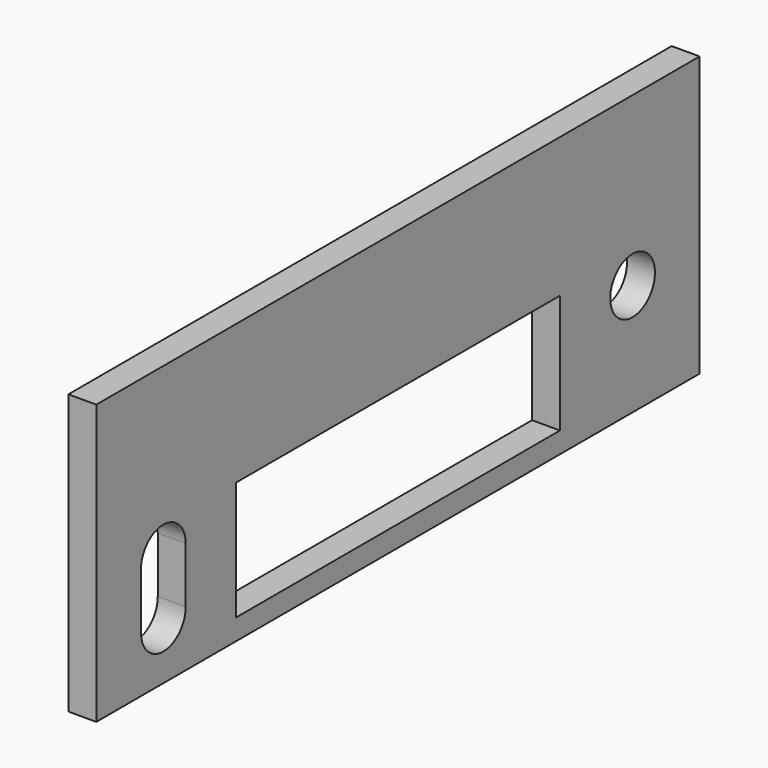
from build123d import *

# Parameters (mm, degrees)
SKETCH021_W     = 2
SKETCH021_H     = 54
PAD012_DEPTH    = 20
POCKET007_DEPTH = 2
SKETCH023_R     = 2
POCKET008_DEPTH = 2
SKETCH024_W     = 29
SKETCH024_H     = 8.5
POCKET009_DEPTH = 2


with BuildPart() as part:
    # Sketch021 → Pad012 (new body)
    with BuildSketch(Plane.XY.offset(20)):
        with Locations((52, 0)):
            Rectangle(SKETCH021_W, SKETCH021_H)
    extrude(amount=-PAD012_DEPTH)

    # Sketch022 (on Face4 of Pad012) → Pocket007 (cut)
    with BuildSketch(Plane.YZ.offset(53)):
        with BuildLine():
            Line((-19, 3.999999), (-19, 8))
            ThreePointArc((-19, 8), (-21, 10), (-23, 7.999999))
            Line((-23, 3.999999), (-23, 7.999999))
            ThreePointArc((-23, 3.999999), (-21, 2), (-19, 3.999999))
        make_face()
    extrude(amount=-POCKET007_DEPTH, mode=Mode.SUBTRACT)

    # Sketch023 (on Face2 of Pocket007) → Pocket008 (cut)
    with BuildSketch(Plane.YZ.offset(53)):
        with Locations((21, 8)):
            Circle(SKETCH023_R)
    extrude(amount=-POCKET008_DEPTH, mode=Mode.SUBTRACT)

    # Sketch024 (on Face2 of Pocket008) → Pocket009 (cut)
    with BuildSketch(Plane.YZ.offset(53)):
        with Locations((0, 5.75)):
            Rectangle(SKETCH024_W, SKETCH024_H)
    extrude(amount=-POCKET009_DEPTH, mode=Mode.SUBTRACT)


solid = part.part
